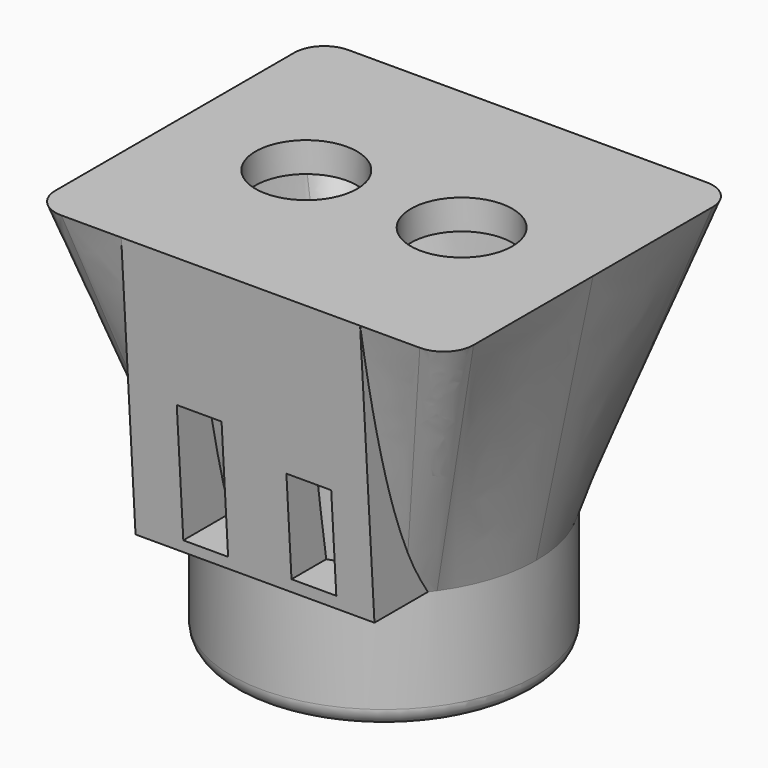
from build123d import *

# Parameters (mm, degrees)
SKETCH005_AS_DRAWN_W              = 7.5
SKETCH005_AS_DRAWN_H              = 20.5
SKETCH005_AS_DRAWN_H_2            = 16
EXTRUDE_DEPTH                     = 30
EXTRUDE_ONTO_SKETCH005_ROLL_ANGLE = 90
SKETCH_R                          = 20.5
SKETCH003_R                       = 25.5
SKETCH004_R                       = 8.5
POCKET_DEPTH                      = 5
CYLINDER001_R                     = 20.5
CYLINDER001_DEPTH                 = 20
CYLINDER_R                        = 25.5
CYLINDER_DEPTH                    = 20
FILLET_R                          = 3


with BuildPart() as obj1:
    # Sketch005 as drawn → Extrude (new)
    with BuildSketch(Plane.XY):
        with Locations((-8.152101, 32.07517)):
            Rectangle(SKETCH005_AS_DRAWN_W, SKETCH005_AS_DRAWN_H)
        with Locations((9.96979, 29.984642)):
            Rectangle(SKETCH005_AS_DRAWN_W, SKETCH005_AS_DRAWN_H_2)
    extrude(amount=EXTRUDE_DEPTH)


with BuildPart() as obj1_1:
    # Extrude onto Sketch005 roll: moved
    add(obj1.part.rotate(Axis((0, 0, 0), (1, 0, 0)), EXTRUDE_ONTO_SKETCH005_ROLL_ANGLE))


with BuildPart() as obj1_2:
    # Extrude onto Sketch005 placement: moved
    add(obj1_1.part.moved(Location((0, -15, 0))))


with BuildPart() as loft_body:
    # Sketch → Loft section 0
    with BuildSketch(Plane.XY.offset(20)):
        Circle(SKETCH_R)
    # Sketch002 → Loft section 1
    with BuildSketch(Plane.XY.offset(60)):
        with BuildLine():
            Line((-24.999998, 25), (24.999999, 25))
            ThreePointArc((30, 20.000001), (28.540896, 23.540898), (24.999999, 25))
            Line((30, -19.999999), (30, 20.000001))
            ThreePointArc((24.999999, -25), (28.539164, -23.539164), (30, -19.999999))
            Line((-24.999998, -25), (24.999999, -25))
            ThreePointArc((-30, -19.999999), (-28.527665, -23.527666), (-24.999998, -25))
            Line((-30, 19.999997), (-30, -19.999999))
            ThreePointArc((-24.999998, 25), (-28.522614, 23.522614), (-30, 19.999997))
        make_face()
    loft()


with BuildPart() as pocket:
    # Sketch003 → Loft001 section 0
    with BuildSketch(Plane.XY.offset(20)):
        Circle(SKETCH003_R)
    # Sketch001 → Loft001 section 1
    with BuildSketch(Plane.XY.offset(65)):
        with BuildLine():
            Line((-35, -24.999999), (-35, 25))
            ThreePointArc((-30, 30), (-33.52786, 28.52786), (-35, 25))
            Line((-30, 30), (29.999999, 30))
            ThreePointArc((35, 25), (33.544012, 28.544013), (29.999999, 30))
            Line((35, 25), (35, -25.000001))
            ThreePointArc((30.000001, -30), (33.536169, -28.536168), (35, -25.000001))
            Line((-30.000003, -30), (30.000001, -30))
            ThreePointArc((-35, -24.999999), (-33.539778, -28.539776), (-30.000003, -30))
        make_face()
    loft()

    # Cut001: cut Loft body
    add(loft_body.part, mode=Mode.SUBTRACT)

    # Sketch004 → Pocket (cut)
    with BuildSketch(Plane.XY.offset(65)):
        with Locations((-13, 0)):
            Circle(SKETCH004_R)
        with Locations((13, 0)):
            Circle(SKETCH004_R)
    extrude(amount=-POCKET_DEPTH, mode=Mode.SUBTRACT)


with BuildPart() as cut002:
    # Sketch006 → Loft002 section 0
    with BuildSketch(Plane.XY.offset(20)):
        Polygon((20, -15), (20, -26.992193), (-20, -26.992193), (-20, -15), (0, -25), align=None)
    # Sketch007 → Loft002 section 1
    with BuildSketch(Plane.XY.offset(65)):
        Polygon((-20, -30), (20, -30), (20, -26.285252), (0, -28.799719), (-20, -26.499249), align=None)
    loft()

    # Fusion: union Pocket
    add(pocket.part)

    # Cut002: cut obj1
    add(obj1_2.part, mode=Mode.SUBTRACT)


with BuildPart() as obj2:
    # Cylinder001 → Cylinder001 (new body)
    with BuildSketch(Plane.XY):
        Circle(CYLINDER001_R)
    extrude(amount=CYLINDER001_DEPTH)


with BuildPart() as fusion001:
    # Cylinder → Cylinder (new body)
    with BuildSketch(Plane.XY):
        Circle(CYLINDER_R)
    extrude(amount=CYLINDER_DEPTH)

    # Cut: cut obj2
    add(obj2.part, mode=Mode.SUBTRACT)

    # Fillet
    fillet_edges = [fusion001.edges().sort_by_distance(p)[0] for p in [
        (-25.5, 0, 0),
    ]]
    fillet(fillet_edges, radius=FILLET_R)

    # Fusion001: union Cut002
    add(cut002.part)


solid = fusion001.part
